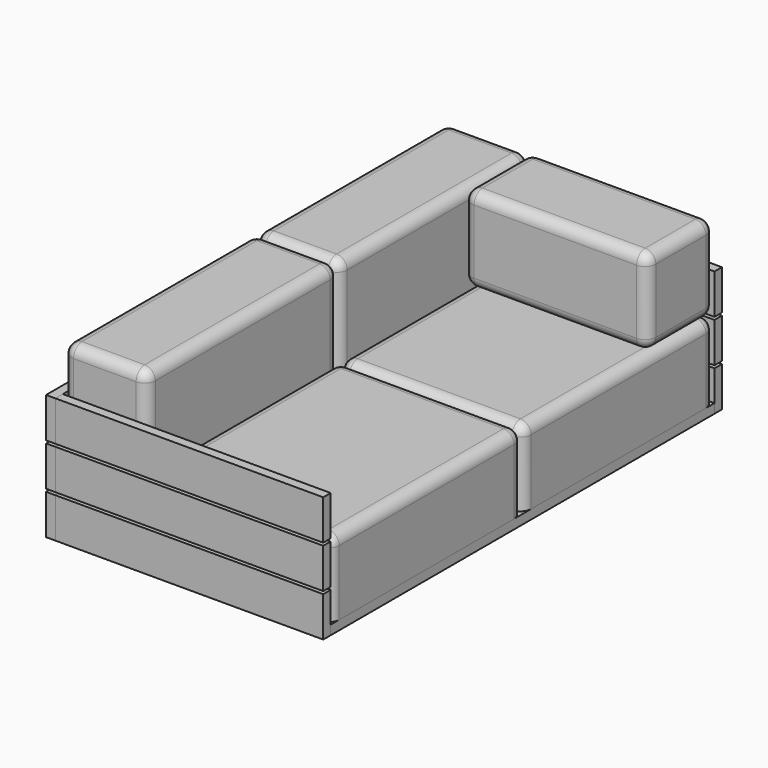
from build123d import *

# Parameters (mm, degrees)
F1_START       = 900
F0_W           = 1005
F0_H           = 150
F1_DEPTH       = 35
F2_START       = -900
F2_DEPTH       = 35
F4_START       = 60
F3_W           = 150
F3_H           = 1800
F4_DEPTH       = 35
F5_W           = 1870
F5_H           = 150
F6_DEPTH       = 35
F8_DEPTH       = 17.5
F8_DEPTH_BACK  = 17.5
F9_START       = 715
F9_DEPTH       = 35
F10_START      = -715
F10_DEPTH      = 35
F12_DEPTH      = 17.5
F12_DEPTH_BACK = 17.5
F13_START      = 715
F13_DEPTH      = 35
F14_START      = -715
F14_DEPTH      = 35
F16_START      = 17.5
F16_DEPTH      = 35
F17_START      = -17.5
F17_DEPTH      = 35
F18_W          = 45
F18_H          = 35
F19_DEPTH      = 52.5
F19_DEPTH_BACK = 52.5
F21_START      = 247.5
F21_DEPTH      = 35
F22_START      = 782.5
F22_DEPTH      = 35
F24_START      = 505
F24_DEPTH      = 65
F29_DEPTH      = 900
F30_R          = 40
F31_R          = 40
F34_DEPTH      = 900
F35_R          = 40
F38_START      = 350
F38_DEPTH      = 690
F39_R          = 40
F40_R          = 40


with BuildPart() as f1:
    # F0 (on Front) → F1 (new body)
    with BuildSketch(Plane.XZ.offset(F1_START)):
        with Locations((537.5, 455)):
            Rectangle(F0_W, F0_H)
    extrude(amount=F1_DEPTH)


with BuildPart() as f1b:
    # F0 (on Front) → F1, piece 2 (new body)
    with BuildSketch(Plane.XZ.offset(F1_START)):
        with Locations((537.5, 295)):
            Rectangle(F0_W, F0_H)
    extrude(amount=F1_DEPTH)


with BuildPart() as f1c:
    # F0 (on Front) → F1, piece 3 (new body)
    with BuildSketch(Plane.XZ.offset(F1_START)):
        with Locations((537.5, 135)):
            Rectangle(F0_W, F0_H)
    extrude(amount=F1_DEPTH)


with BuildPart() as f2:
    # F0 (on Front) → F2 (new body)
    with BuildSketch(Plane.XZ.offset(F2_START)):
        with Locations((537.5, 455)):
            Rectangle(F0_W, F0_H)
    extrude(amount=-F2_DEPTH)


with BuildPart() as f2b:
    # F0 (on Front) → F2, piece 2 (new body)
    with BuildSketch(Plane.XZ.offset(F2_START)):
        with Locations((537.5, 295)):
            Rectangle(F0_W, F0_H)
    extrude(amount=-F2_DEPTH)


with BuildPart() as f2c:
    # F0 (on Front) → F2, piece 3 (new body)
    with BuildSketch(Plane.XZ.offset(F2_START)):
        with Locations((537.5, 135)):
            Rectangle(F0_W, F0_H)
    extrude(amount=-F2_DEPTH)


with BuildPart() as f4:
    # F3 (on Top) → F4 (new body)
    with BuildSketch(Plane.XY.offset(F4_START)):
        with Locations((965, 0)):
            Rectangle(F3_W, F3_H)
    extrude(amount=F4_DEPTH)


with BuildPart() as f4b:
    # F3 (on Top) → F4, piece 2 (new body)
    with BuildSketch(Plane.XY.offset(F4_START)):
        with Locations((805, 0)):
            Rectangle(F3_W, F3_H)
    extrude(amount=F4_DEPTH)


with BuildPart() as f4c:
    # F3 (on Top) → F4, piece 3 (new body)
    with BuildSketch(Plane.XY.offset(F4_START)):
        with Locations((430, 0)):
            Rectangle(F3_W, F3_H)
    extrude(amount=F4_DEPTH)


with BuildPart() as f4d:
    # F3 (on Top) → F4, piece 4 (new body)
    with BuildSketch(Plane.XY.offset(F4_START)):
        with Locations((270, 0)):
            Rectangle(F3_W, F3_H)
    extrude(amount=F4_DEPTH)


with BuildPart() as f4e:
    # F3 (on Top) → F4, piece 5 (new body)
    with BuildSketch(Plane.XY.offset(F4_START)):
        with Locations((110, 0)):
            Rectangle(F3_W, F3_H)
    extrude(amount=F4_DEPTH)


with BuildPart() as f4f:
    # F3 (on Top) → F4, piece 6 (new body)
    with BuildSketch(Plane.XY.offset(F4_START)):
        with Locations((645, 0)):
            Rectangle(F3_W, F3_H)
    extrude(amount=F4_DEPTH)


with BuildPart() as f6:
    # F5 (on Right) → F6 (new body)
    with BuildSketch(Plane.YZ):
        with Locations((0, 455)):
            Rectangle(F5_W, F5_H)
    extrude(amount=F6_DEPTH)


with BuildPart() as f6b:
    # F5 (on Right) → F6, piece 2 (new body)
    with BuildSketch(Plane.YZ):
        with Locations((0, 295)):
            Rectangle(F5_W, F5_H)
    extrude(amount=F6_DEPTH)


with BuildPart() as f6c:
    # F5 (on Right) → F6, piece 3 (new body)
    with BuildSketch(Plane.YZ):
        with Locations((0, 135)):
            Rectangle(F5_W, F5_H)
    extrude(amount=F6_DEPTH)


with BuildPart() as f8:
    # F7 (on Front) → F8 (new body, two sides)
    with BuildSketch(Plane.XZ) as f8_sk:
        Polygon((1025, 60), (50, 60), (110, 0), (965, 0), align=None)
    extrude(amount=F8_DEPTH)
    extrude(f8_sk.sketch, amount=-F8_DEPTH_BACK)


with BuildPart() as f9:
    # F7 (on Front) → F9 (new body)
    with BuildSketch(Plane.XZ.offset(F9_START)):
        Polygon((1025, 60), (50, 60), (110, 0), (965, 0), align=None)
    extrude(amount=F9_DEPTH)


with BuildPart() as f10:
    # F7 (on Front) → F10 (new body)
    with BuildSketch(Plane.XZ.offset(F10_START)):
        Polygon((1025, 60), (50, 60), (110, 0), (965, 0), align=None)
    extrude(amount=-F10_DEPTH)


with BuildPart() as f12:
    # F11 (on Front) → F12 (new body, two sides)
    with BuildSketch(Plane.XZ) as f12_sk:
        Polygon((35, 420), (35, 95), (55, 95), (55, 400), align=None)
    extrude(amount=F12_DEPTH)
    extrude(f12_sk.sketch, amount=-F12_DEPTH_BACK)


with BuildPart() as f13:
    # F11 (on Front) → F13 (new body)
    with BuildSketch(Plane.XZ.offset(F13_START)):
        Polygon((35, 420), (35, 95), (55, 95), (55, 400), align=None)
    extrude(amount=F13_DEPTH)


with BuildPart() as f14:
    # F11 (on Front) → F14 (new body)
    with BuildSketch(Plane.XZ.offset(F14_START)):
        Polygon((35, 420), (35, 95), (55, 95), (55, 400), align=None)
    extrude(amount=-F14_DEPTH)


with BuildPart() as f16:
    # F15 (on Front) → F16 (new body)
    with BuildSketch(Plane.XZ.offset(F16_START)):
        Polygon((55, 195), (35, 195), (35, 95), (55, 95), (505, 95), (505, 15), (525, 15), (525, 95), (525, 115), (55, 115), (55, 145), align=None)
    extrude(amount=F16_DEPTH)


with BuildPart() as f17:
    # F15 (on Front) → F17 (new body)
    with BuildSketch(Plane.XZ.offset(F17_START)):
        Polygon((55, 195), (35, 195), (35, 95), (55, 95), (505, 95), (505, 15), (525, 15), (525, 95), (525, 115), (55, 115), (55, 145), align=None)
    extrude(amount=-F17_DEPTH)


with BuildPart() as f19:
    # F18 (on Front) → F19 (new body, two sides)
    with BuildSketch(Plane.XZ) as f19_sk:
        with Locations((547.5, 77.5)):
            Rectangle(F18_W, F18_H)
    extrude(amount=F19_DEPTH)
    extrude(f19_sk.sketch, amount=-F19_DEPTH_BACK)


with BuildPart() as f21:
    # F20 (on Right) → F21 (new body)
    with BuildSketch(Plane.YZ.offset(F21_START)):
        Polygon((-900, 420), (-900, 95), (-880, 95), (-880, 400), align=None)
    extrude(amount=F21_DEPTH)


with BuildPart() as f22:
    # F20 (on Right) → F22 (new body)
    with BuildSketch(Plane.YZ.offset(F22_START)):
        Polygon((-900, 420), (-900, 95), (-880, 95), (-880, 400), align=None)
    extrude(amount=F22_DEPTH)


with BuildPart() as f24:
    # F23 (on Right) → F24 (new body)
    with BuildSketch(Plane.YZ.offset(F24_START)):
        Polygon((-900, 195), (-900, 60), (-785, 60), (-785, 10), (-750, 10), (-750, 60), (-715, 60), (-715, 10), (-680, 10), (-680, 95), (-880, 95), (-880, 195), align=None)
    extrude(amount=F24_DEPTH)


with BuildPart() as f25_1:
    # F25: instance of F22
    add(f22.part.mirror(Plane.XZ))


with BuildPart() as f26_1:
    # F26: instance of F21
    add(f21.part.mirror(Plane.XZ))


with BuildPart() as f27_1:
    # F27: instance of F24
    add(f24.part.mirror(Plane.XZ))


with BuildPart() as f29:
    # F28 (on Front) → F29 (new body)
    with BuildSketch(Plane.XZ):
        with BuildLine():
            Line((1000, 380), (390, 380))
            ThreePointArc((390, 380), (361.7157287525, 368.2842712475), (350, 340))
            Line((350, 340), (350, 95))
            Line((350, 95), (1040, 95))
            Line((1040, 95), (1040, 340))
            ThreePointArc((1040, 340), (1028.2842712475, 368.2842712475), (1000, 380))
        make_face()
    extrude(amount=F29_DEPTH)

    # F30
    f30_edges = [f29.edges().sort_by_distance(p)[0] for p in [
        (695, 0, 380),
    ]]
    fillet(f30_edges, radius=F30_R)

    # F31
    f31_edges = [f29.edges().sort_by_distance(p)[0] for p in [
        (695, -900, 380),
    ]]
    fillet(f31_edges, radius=F31_R)


with BuildPart() as f32_1:
    # F32: instance of F29
    add(f29.part.mirror(Plane.XZ))


with BuildPart() as f34:
    # F33 (on Front) → F34 (new body)
    with BuildSketch(Plane.XZ):
        with BuildLine():
            Line((310, 700), (75, 700))
            ThreePointArc((75, 700), (46.7157287525, 688.2842712475), (35, 660))
            Line((35, 660), (35, 95))
            Line((35, 95), (350, 95))
            Line((350, 95), (350, 660))
            ThreePointArc((350, 660), (338.2842712475, 688.2842712475), (310, 700))
        make_face()
    extrude(amount=F34_DEPTH)

    # F35
    f35_edges = [f34.edges().sort_by_distance(p)[0] for p in [
        (350, 0, 377.5),
        (192.5, -900, 700),
    ]]
    fillet(f35_edges, radius=F35_R)


with BuildPart() as f36_1:
    # F36: instance of F34
    add(f34.part.mirror(Plane.XZ))


with BuildPart() as f38:
    # F37 (on Right) → F38 (new body)
    with BuildSketch(Plane.YZ.offset(F38_START)):
        with BuildLine():
            Line((860, 705.9465668031), (625, 705.9465668031))
            ThreePointArc((625, 705.9465668031), (596.7157287525, 694.2308380506), (585, 665.9465668031))
            Line((585, 665.9465668031), (585, 424.5179953745))
            ThreePointArc((585, 424.5179953745), (596.7157287525, 396.2337241271), (625, 384.5179953745))
            Line((625, 384.5179953745), (860, 384.5179953745))
            ThreePointArc((860, 384.5179953745), (888.2842712475, 396.2337241271), (900, 424.5179953745))
            Line((900, 424.5179953745), (900, 665.9465668031))
            ThreePointArc((900, 665.9465668031), (888.2842712475, 694.2308380506), (860, 705.9465668031))
        make_face()
    extrude(amount=F38_DEPTH)

    # F39
    f39_edges = [f38.edges().sort_by_distance(p)[0] for p in [
        (1040, 585, 545.232281),
    ]]
    fillet(f39_edges, radius=F39_R)

    # F40
    f40_edges = [f38.edges().sort_by_distance(p)[0] for p in [
        (350, 596.715729, 694.230838),
    ]]
    fillet(f40_edges, radius=F40_R)


solid = Compound([f1.part, f1b.part, f1c.part, f2.part, f2b.part, f2c.part, f4.part, f4b.part, f4c.part, f4d.part, f4e.part, f4f.part, f6.part, f6b.part, f6c.part, f8.part, f9.part, f10.part, f12.part, f13.part, f14.part, f16.part, f17.part, f19.part, f21.part, f22.part, f24.part, f25_1.part, f26_1.part, f27_1.part, f29.part, f32_1.part, f34.part, f36_1.part, f38.part])
